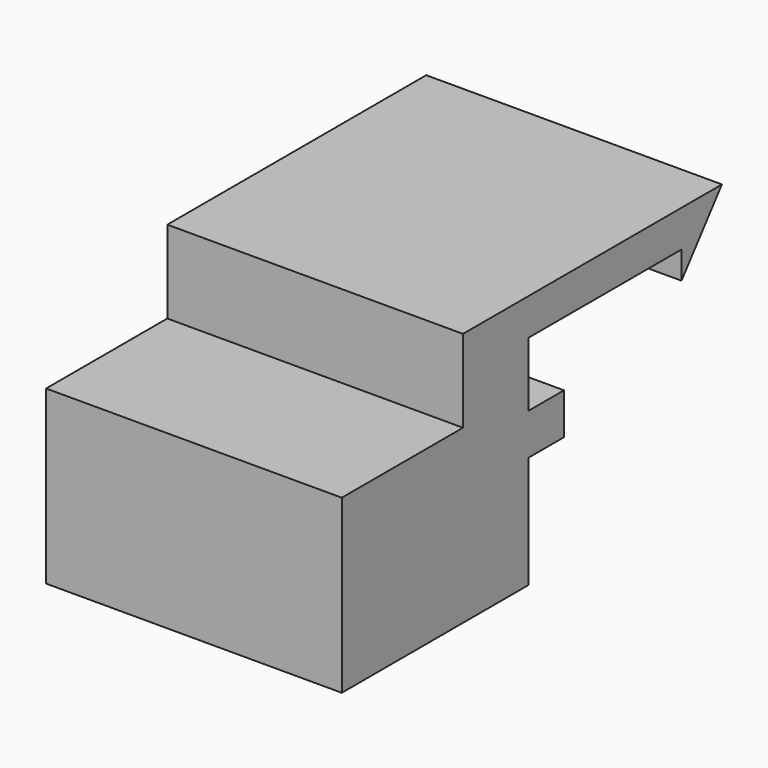
from build123d import *

# Parameters (mm, degrees)
F1_DEPTH = 50.8


with BuildPart() as f1:
    # F0 (on Right) → F1 (new body)
    with BuildSketch(Plane.YZ):
        Polygon((32.890417, 32.665581), (41.566547, 43.707926), (-14.039553, 43.707926), (-14.039553, 29.510625), (-40.067937, 29.510625), (-40.067937, 0), (0, 0), (0, 19.257018), (7.650767, 19.257018), (7.650767, 26.355669), (0, 26.355669), (0, 37.398014), (32.890417, 37.398014), align=None)
    extrude(amount=F1_DEPTH)


solid = f1.part
